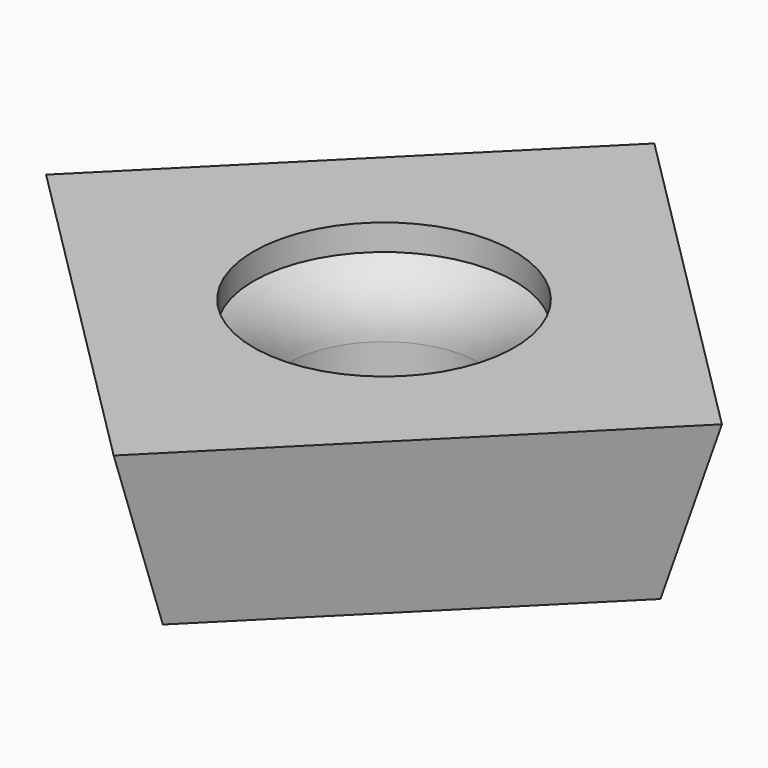
from build123d import *

# Parameters (mm, degrees)
F0_W     = 11
F0_H     = 11
F2_W     = 9
F2_H     = 9
F6_ANGLE = 45


with BuildPart() as f3:
    # F0 (on Top) → F3 section 0
    with BuildSketch(Plane.XY):
        Rectangle(F0_W, F0_H)
    # F2 (on offset) → F3 section 1
    with BuildSketch(Plane.XY.offset(-4)):
        Rectangle(F2_W, F2_H)
    loft()

    # F4 (on Front) → F5 (revolve, cut)
    with BuildSketch(Plane.XZ):
        with BuildLine():
            Line((0, -4), (2.2, -4))
            Line((2.2, -4), (2.2, -2))
            ThreePointArc((2.2, -2), (2.414105, -1.193774), (3, -0.6))
            Line((3, -0.6), (3, 0))
            Line((3, 0), (0, 0))
            Line((0, 0), (0, -4))
        make_face()
    revolve(axis=Axis((0, 0, -1.994932), (0, 0, -1)), mode=Mode.SUBTRACT)


with BuildPart() as f3_1:
    # F6: moved
    add(f3.part.rotate(Axis((0, 0, -2), (0, 0, -1)), F6_ANGLE))


solid = f3_1.part
